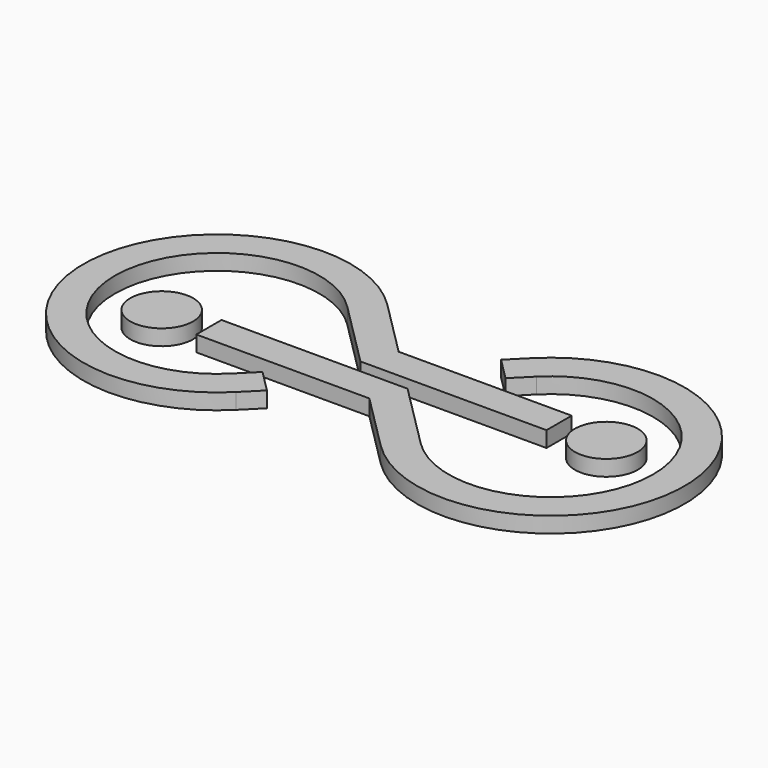
from build123d import *

# Parameters (mm, degrees)
F2_R     = 5.08
F3_DEPTH = 2.54


with BuildPart() as f3:
    # F2 (on Top) → F3 (new body)
    with BuildSketch(Plane.XY):
        with BuildLine():
            Line((-2.54, 6.132102), (-11.674333, 15.266435))
            ThreePointArc((-11.674333, 15.266435), (-48.530768, 0), (-11.674333, -15.266435))
            Line((-11.674333, -15.266435), (-8.903218, -12.49532))
            Line((-8.903218, -12.49532), (-12.49532, -8.903218))
            Line((-12.49532, -8.903218), (-15.266435, -11.674333))
            ThreePointArc((-15.266435, -11.674333), (-43.450768, 0), (-15.266435, 11.674333))
            Line((-15.266435, 11.674333), (-4.644205, 1.052102))
            Line((-4.644205, 1.052102), (25.4, 1.052102))
            Line((25.4, 1.052102), (25.4, 6.132102))
            Line((25.4, 6.132102), (-2.54, 6.132102))
        make_face()
        with BuildLine():
            Line((12.49532, 8.903218), (15.266435, 11.674333))
            ThreePointArc((15.266435, 11.674333), (43.450768, 0), (15.266435, -11.674333))
            Line((15.266435, -11.674333), (4.644205, -1.052102))
            Line((4.644205, -1.052102), (-25.4, -1.052102))
            Line((-25.4, -1.052102), (-25.4, -6.132102))
            Line((-25.4, -6.132102), (2.54, -6.132102))
            Line((2.54, -6.132102), (11.674333, -15.266435))
            ThreePointArc((11.674333, -15.266435), (48.530768, 0), (11.674333, 15.266435))
            Line((11.674333, 15.266435), (8.903218, 12.49532))
            Line((8.903218, 12.49532), (12.49532, 8.903218))
        make_face()
        with Locations((33.02, 3.592102)):
            Circle(F2_R)
        with Locations((-33.02, -3.592102)):
            Circle(F2_R)
    extrude(amount=F3_DEPTH)


solid = f3.part
